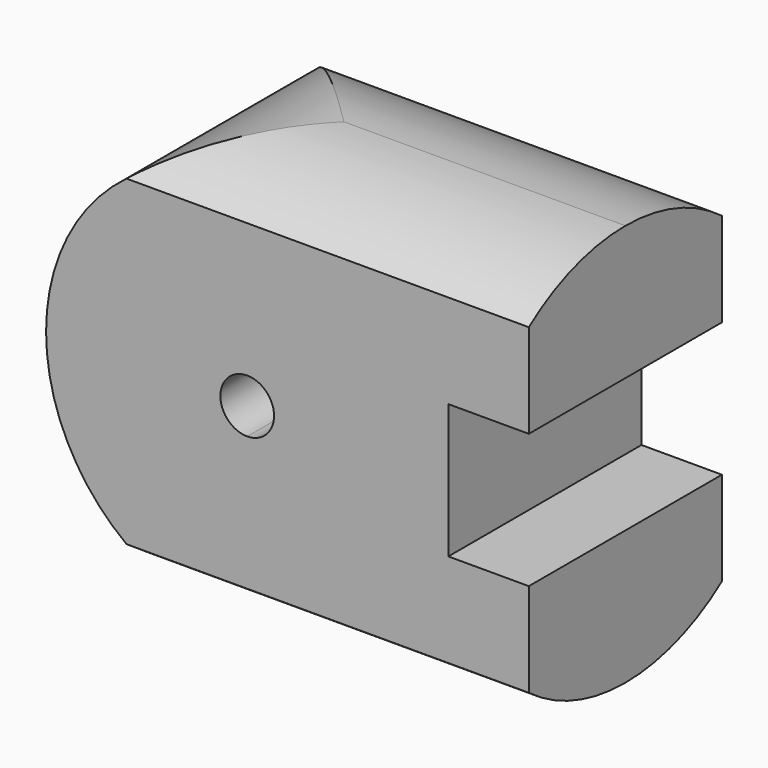
from build123d import *

# Parameters (mm, degrees)
F1_DEPTH = 9
F2_W     = 9
F2_H     = 5
F3_DEPTH = 3
F5_DEPTH = 25


with BuildPart() as f1:
    # F0 (on Front) → F1 (new body)
    with BuildSketch(Plane.XZ):
        with BuildLine():
            Line((-48.888732, 31.176301), (-48.888732, 37.676301))
            ThreePointArc((-48.888732, 37.676301), (-56.388732, 30.176301), (-48.888732, 22.676301))
            Line((-48.888732, 22.676301), (-48.888732, 29.176301))
            ThreePointArc((-48.888732, 29.176301), (-49.888732, 30.176301), (-48.888732, 31.176301))
        make_face()
        with BuildLine():
            ThreePointArc((-48.888732, 22.676301), (-43.585431, 24.873), (-41.388732, 30.176301))
            ThreePointArc((-41.388732, 30.176301), (-43.585431, 35.479602), (-48.888732, 37.676301))
            Line((-48.888732, 37.676301), (-48.888732, 31.176301))
            ThreePointArc((-48.888732, 31.176301), (-48.181625, 30.883408), (-47.888732, 30.176301))
            ThreePointArc((-47.888732, 30.176301), (-48.181625, 29.469194), (-48.888732, 29.176301))
            Line((-48.888732, 29.176301), (-48.888732, 22.676301))
        make_face()
        with BuildLine():
            ThreePointArc((-48.888732, 37.676301), (-43.585431, 35.479602), (-41.388732, 30.176301))
            Line((-41.388732, 30.176301), (-41.388732, 37.676301))
            Line((-41.388732, 37.676301), (-48.888732, 37.676301))
        make_face()
        with BuildLine():
            Line((-41.388732, 22.676301), (-41.388732, 30.176301))
            ThreePointArc((-41.388732, 30.176301), (-43.585431, 24.873), (-48.888732, 22.676301))
            Line((-48.888732, 22.676301), (-41.388732, 22.676301))
        make_face()
    extrude(amount=F1_DEPTH)

    # F2 (on face) → F3 (join)
    with BuildSketch(Plane.YZ.offset(-41.388732)):
        with Locations((-4.5, 35.176301)):
            Rectangle(F2_W, F2_H)
        with Locations((-4.5, 25.176301)):
            Rectangle(F2_W, F2_H)
    extrude(amount=F3_DEPTH)

    # F4 (on face) → F5 (cut)
    with BuildSketch(Plane.YZ.offset(-38.388732)):
        with BuildLine():
            Line((5.874889, 26.795391), (2.194733, 26.795391))
            ThreePointArc((2.194733, 26.795391), (-4.5, 22.676301), (-11.194733, 26.795391))
            Line((-11.194733, 26.795391), (-12.804028, 26.795391))
            Line((-12.804028, 26.795391), (-12.804028, 21.1592))
            Line((-12.804028, 21.1592), (5.874889, 21.1592))
            Line((5.874889, 21.1592), (5.874889, 26.795391))
        make_face()
        with BuildLine():
            ThreePointArc((-4.5, 37.676301), (-2.128292, 37.291426), (0, 36.176301))
            Line((0, 36.176301), (0, 37.676301))
            Line((0, 37.676301), (-4.5, 37.676301))
        make_face()
        with BuildLine():
            ThreePointArc((-9, 36.176301), (-6.871708, 37.291426), (-4.5, 37.676301))
            Line((-4.5, 37.676301), (-9, 37.676301))
            Line((-9, 37.676301), (-9, 36.176301))
        make_face()
    extrude(amount=-F5_DEPTH, mode=Mode.SUBTRACT)


solid = f1.part
